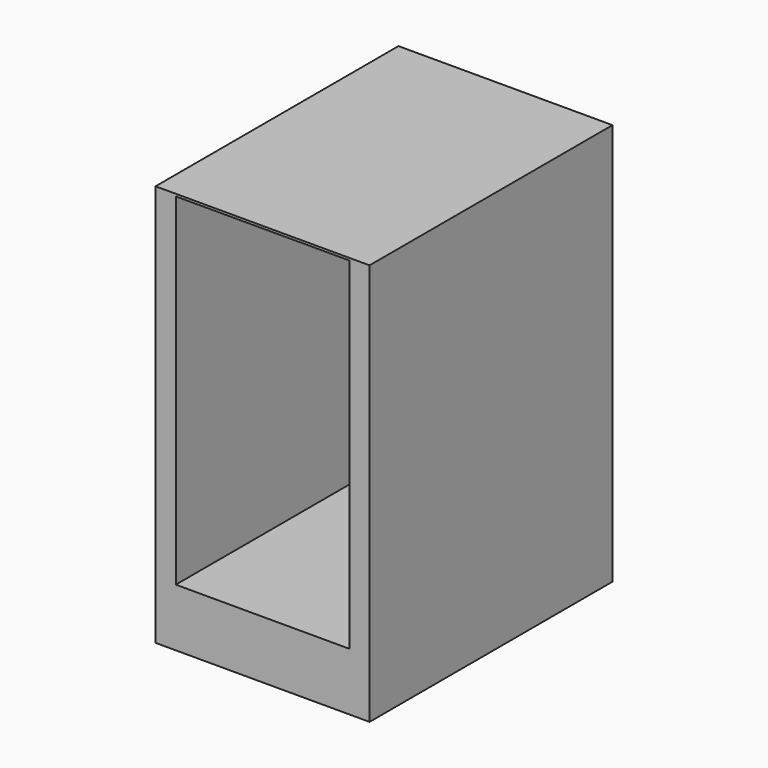
from build123d import *

# Parameters (mm, degrees)
F0_W     = 381
F0_H     = 127
F0_H_2   = 5.08
F1_DEPTH = 666.75


with BuildPart() as f1:
    # F0 (on Front) → F1 (new body)
    with BuildSketch(Plane.XZ):
        Polygon((-518.244692, 429.259082), (-518.244692, 434.339082), (-562.694692, 434.339082), (-562.694692, -448.310918), (-518.244692, -448.310918), (-518.244692, -321.310918), align=None)
        with Locations((-327.744692, -384.810918)):
            Rectangle(F0_W, F0_H)
        Polygon((-92.794692, 434.339082), (-137.244692, 434.339082), (-137.244692, 429.259082), (-137.244692, -321.310918), (-137.244692, -448.310918), (-92.794692, -448.310918), align=None)
        with Locations((-327.744692, 431.799082)):
            Rectangle(F0_W, F0_H_2)
    extrude(amount=-F1_DEPTH)


solid = f1.part
